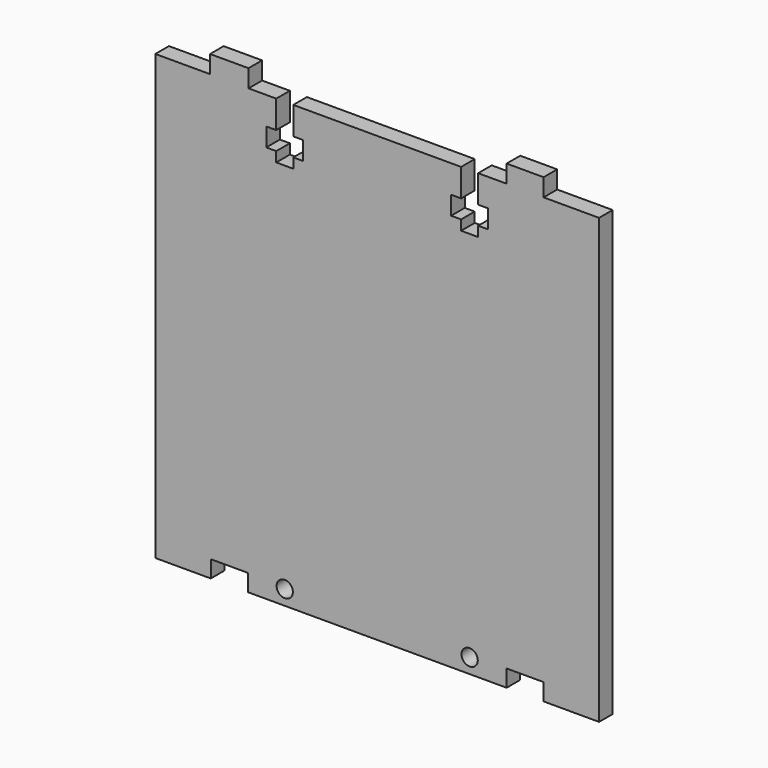
from build123d import *

# Parameters (mm, degrees)
F0_R     = 1.397
F1_DEPTH = 2.921


with BuildPart() as f1:
    # F0 (on Front) → F1 (new body)
    with BuildSketch(Plane.XZ):
        Polygon((38.1, 76.2), (38.1, 0), (60.325, 0), (60.325, 2.921), (66.675, 2.921), (66.675, 0), (76.2, 0), (76.2, 76.2), (66.675, 76.2), (66.675, 73.152), (60.325, 73.152), (60.325, 76.2), (55.4355, 76.2), (55.4355, 71.4375), (57.15, 71.4375), (57.15, 68.2625), (55.4355, 68.2625), (55.4355, 66.548), (53.975, 66.548), (52.5145, 66.548), (52.5145, 68.2625), (50.8, 68.2625), (50.8, 71.4375), (52.5145, 71.4375), (52.5145, 76.2), align=None)
        with Locations((53.975, 2.54)):
            Circle(F0_R, mode=Mode.SUBTRACT)
        Polygon((0, 76.2), (0, 0), (9.525, 0), (9.525, 2.921), (15.875, 2.921), (15.875, 0), (38.1, 0), (38.1, 76.2), (23.6855, 76.2), (23.6855, 71.4375), (25.4, 71.4375), (25.4, 68.2625), (23.6855, 68.2625), (23.6855, 66.548), (22.225, 66.548), (20.7645, 66.548), (20.7645, 68.2625), (19.05, 68.2625), (19.05, 71.4375), (20.7645, 71.4375), (20.7645, 76.2), (16.002, 76.2), (16.002, 73.152), (9.398, 73.152), (9.398, 76.2), align=None)
        with Locations((22.225, 2.54)):
            Circle(F0_R, mode=Mode.SUBTRACT)
        Polygon((63.5, 76.2), (60.325, 76.2), (60.325, 73.152), (66.675, 73.152), (66.675, 76.2), align=None)
        Polygon((60.325, 79.248), (60.325, 76.2), (63.5, 76.2), (66.675, 76.2), (66.675, 79.248), align=None)
        Polygon((12.7, 76.2), (9.398, 76.2), (9.398, 73.152), (16.002, 73.152), (16.002, 76.2), align=None)
        Polygon((9.398, 79.248), (9.398, 76.2), (12.7, 76.2), (16.002, 76.2), (16.002, 79.248), align=None)
    extrude(amount=F1_DEPTH)


solid = f1.part
